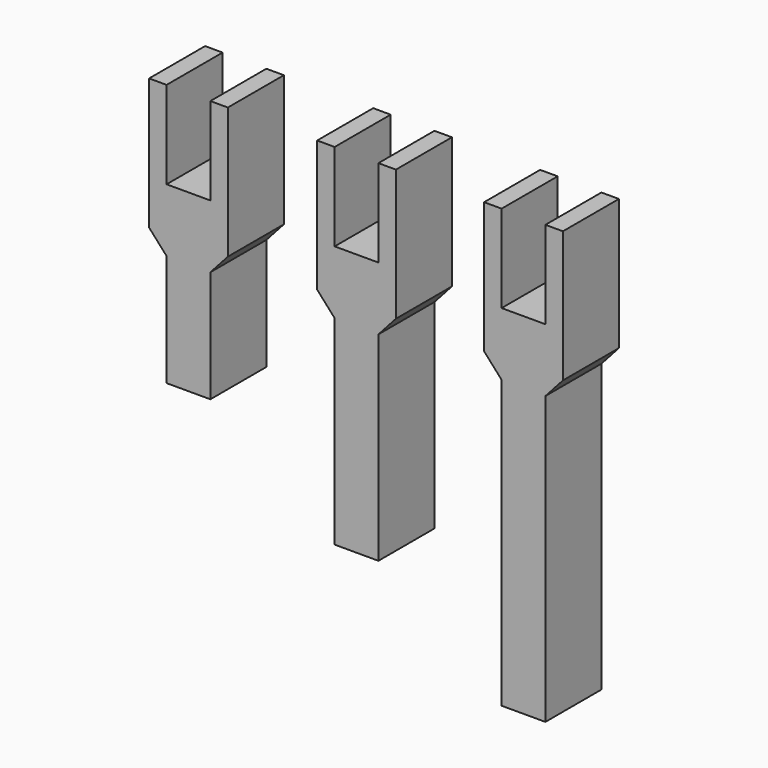
from build123d import *

# Parameters (mm, degrees)
F1_DEPTH = 8


with BuildPart() as f1:
    # F0 (on Front) → F1 (new body)
    with BuildSketch(Plane.XZ):
        Polygon((-2.5, 2.777778), (-2.5, -10), (2.5, -10), (2.5, 2.777778), (4.5, 5), (4.5, 20), (2.5, 20), (2.5, 10), (-2.5, 10), (-2.5, 20), (-4.5, 20), (-4.5, 5), align=None)
        Polygon((21.701601, 10), (16.701601, 10), (16.701601, 20), (14.701601, 20), (14.701601, 5), (16.701601, 2.777778), (16.701601, -20.000002), (21.701601, -20.000002), (21.701601, 2.777778), (23.701601, 5), (23.701601, 20), (21.701601, 20), align=None)
        Polygon((40.779034, 10), (35.779034, 10), (35.779034, 20), (33.779034, 20), (33.779034, 5), (35.779034, 2.777778), (35.779034, -30.000002), (40.779034, -30.000002), (40.779034, 2.777778), (42.779034, 5), (42.779034, 20), (40.779034, 20), align=None)
    extrude(amount=F1_DEPTH)


solid = f1.part
